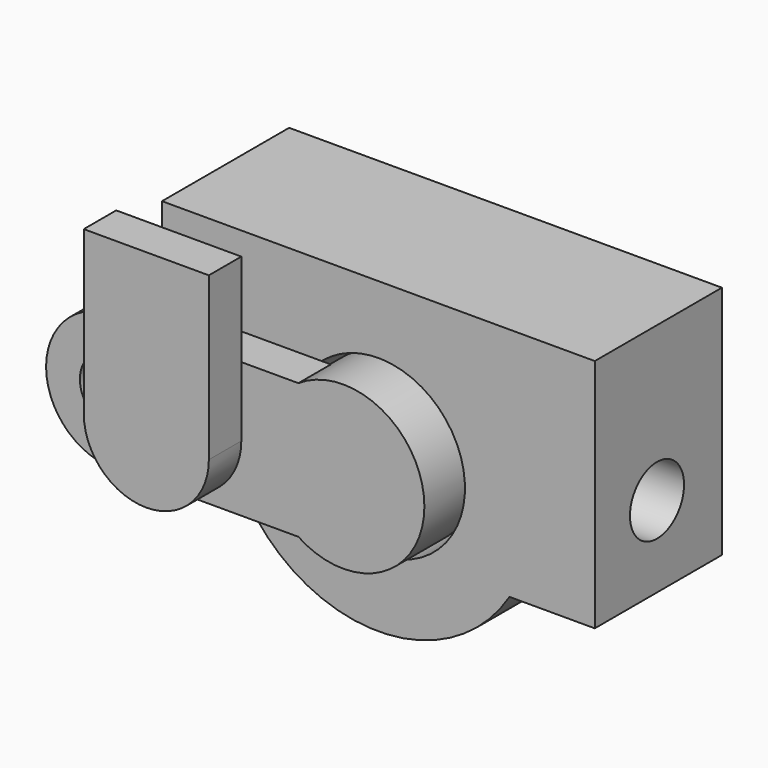
from build123d import *

# Parameters (mm, degrees)
F0_R      = 6
F1_DEPTH  = 7.5
F4_DEPTH  = 3
F6_R      = 2
F9_DEPTH  = 14.9705627485
F10_R     = 0.75
F14_DEPTH = 3
F15_R     = 2.125
F16_DEPTH = 3.2
F19_DEPTH = 2
F21_R     = 6.4
F22_DEPTH = 11.75
F23_R     = 2.5
F24_DEPTH = 32.001


with BuildPart() as f1:
    # F0 (on Front) → F1 (new body, symmetric)
    with BuildSketch(Plane.XZ):
        Circle(F0_R)
    extrude(amount=F1_DEPTH, both=True)

    # F3 (on face) → F4 (join)
    with BuildSketch(Plane.XZ.offset(7.5)):
        with BuildLine():
            Line((-3.3166247904, 5), (-16.9705627485, 5))
            ThreePointArc((-16.9705627485, 5), (-21.9705627485, 0), (-16.9705627485, -5))
            Line((-16.9705627485, -5), (-3.3166247904, -5))
            ThreePointArc((-3.3166247904, -5), (-6, 0), (-3.3166247904, 5))
        make_face()
        with BuildLine():
            ThreePointArc((-16.9705627485, -2.5), (-19.4705627485, 0), (-16.9705627485, 2.5))
            Line((-16.9705627485, 2.5), (-12, 2.5))
            ThreePointArc((-12, 2.5), (-9.5, 0), (-12, -2.5))
            Line((-12, -2.5), (-16.9705627485, -2.5))
        make_face(mode=Mode.SUBTRACT)
    extrude(amount=-F4_DEPTH)

    # F6 (on line) → F9 (cut, through all)
    with BuildSketch(Plane(origin=(12, 0, 12), x_dir=(0.7071067812, 0, -0.7071067812), z_dir=(0.7071067812, 0, 0.7071067812))):
        with Locations((0, 1.5)):
            Circle(F6_R)
    extrude(amount=-F9_DEPTH, mode=Mode.SUBTRACT)

    # F10 (on Top) → F11 (revolve, cut)
    with BuildSketch(Plane.XY):
        with Locations((-6, 5)):
            Circle(F10_R)
        with Locations((-6, -2)):
            Circle(F10_R)
    revolve(axis=Axis((0, 3.3465889492, 0), (0, 1, 0)), mode=Mode.SUBTRACT)

    # F18 (on offset) → F19 (cut, symmetric)
    with BuildSketch(Plane(origin=(0, 1.5, 0), x_dir=(-1, 0, 0), z_dir=(0, 1, 0))):
        with BuildLine():
            ThreePointArc((-5.0695888728, -3.6553753105), (5.3171741035, -3.2848378275), (1, 6.1694813396))
            Line((1, 6.1694813396), (1, 2.4142135624))
            Line((1, 2.4142135624), (-5.0695888728, -3.6553753105))
        make_face()
    extrude(amount=F19_DEPTH, both=True, mode=Mode.SUBTRACT)


with BuildPart() as f14:
    # F13 (on offset) → F14 (new body)
    with BuildSketch(Plane.XZ.offset(7.7)):
        with BuildLine():
            Line((-7.375, 12), (-16.625, 12))
            Line((-16.625, 12), (-16.625, 0))
            ThreePointArc((-16.625, 0), (-12, -4.625), (-7.375, 0))
            Line((-7.375, 0), (-7.375, 12))
        make_face()
    extrude(amount=F14_DEPTH)

    # F15 (on face) → F16 (join)
    with BuildSketch(Plane(origin=(0, -7.7, 0), x_dir=(-1, 0, 0), z_dir=(0, 1, 0))):
        with Locations((12, 0)):
            Circle(F15_R)
    extrude(amount=F16_DEPTH)


with BuildPart() as f22:
    # F21 (on offset) → F22 (new body, through all)
    with BuildSketch(Plane(origin=(0, -4.25, 0), x_dir=(-1, 0, 0), z_dir=(0, 1, 0))):
        with BuildLine():
            Line((16, 11.4), (-16, 11.4))
            Line((-16, 11.4), (-16, -6))
            Line((-16, -6), (-9.6932966528, -6))
            ThreePointArc((-9.6932966528, -6), (0, -11.4), (9.6932966528, -6))
            Line((9.6932966528, -6), (16, -6))
            Line((16, -6), (16, 11.4))
        make_face()
        Circle(F21_R, mode=Mode.SUBTRACT)
    extrude(amount=F22_DEPTH)

    # F23 (on face) → F24 (cut, through all)
    with BuildSketch(Plane(origin=(-16, 0, 0), x_dir=(0, -1, 0), z_dir=(-1, 0, 0))):
        with Locations((-1.5, 0)):
            Circle(F23_R)
    extrude(amount=-F24_DEPTH, mode=Mode.SUBTRACT)


solid = Compound([f1.part, f14.part, f22.part])
